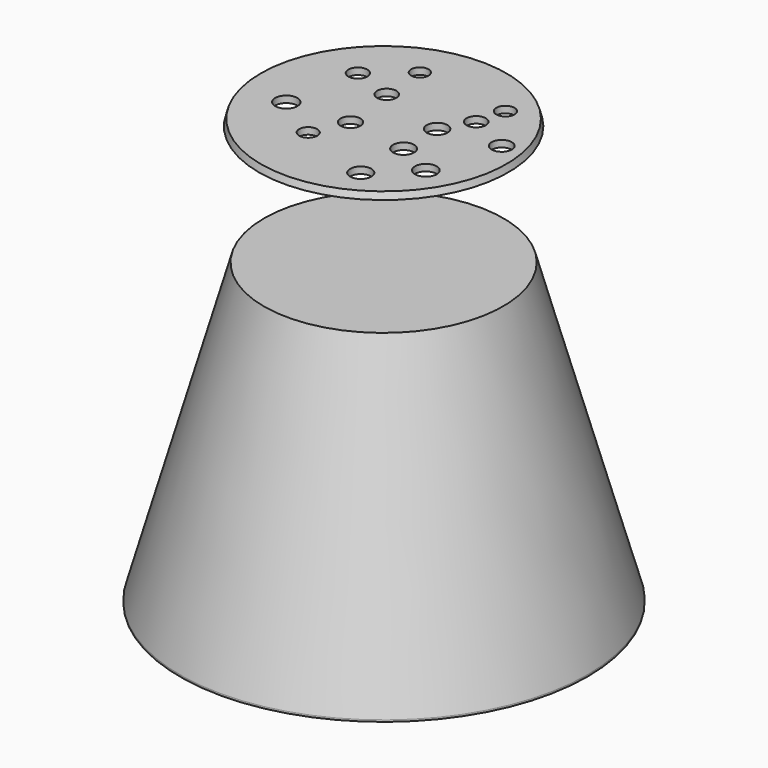
from build123d import *

# Parameters (mm, degrees)
F3_R     = 2.2664250342
F3_R_2   = 2.1822297353
F3_R_3   = 2.282281141
F3_R_4   = 2.64483265
F3_R_5   = 2.7240512482
F3_R_6   = 2.6649914966
F3_R_7   = 2.6057239863
F3_R_8   = 2.4093813538
F3_R_9   = 2.5323750002
F3_R_10  = 2.4159586068
F3_R_11  = 2.3852052253
F3_R_12  = 2.4866511686
F3_R_13  = 2.7873706171
F4_DEPTH = 2.1


with BuildPart() as f1:
    # F0 (on Front) → F1 (revolve)
    with BuildSketch(Plane.XZ):
        Polygon((0, 0), (-30, -0.0542007617), (-50.9721353226, -74.5447462469), (-50.9721353226, -75.0054545931), (-49.3357537386, -75.0054545931), (-31.2951667125, -10.9274221097), (-30.8227315443, -9.2493882403), (-28.7118752785, -1.751876315), (0.0022064812, -1.6999988116), align=None)
    revolve(axis=Axis((0.0011032406, 0, -0.8499994058), (-0.0012979299, 0, 0.9999991577)))


with BuildPart() as f2:
    # F0 (on Front) → F2 (revolve)
    with BuildSketch(Plane.XZ):
        Polygon((0.0010570226, 30.0191346799), (0.0010570226, 31.6971685494), (-30.8216745217, 31.6971685494), (-31.2941096899, 30.0191346799), align=None)
    revolve(axis=Axis((0.0010570226, 0, 30.8581516147), (0, 0, 1)))

    # F3 (on face) → F4 (cut)
    with BuildSketch(Plane.XY.offset(31.6971685494)):
        with Locations((-7.8894328326, -13.7825533748)):
            Circle(F3_R)
        with Locations((-6.7177857272, 19.7487901896)):
            Circle(F3_R_2)
        with Locations((16.6287105531, 17.406752333)):
            Circle(F3_R_3)
        with Locations((10.9953926876, -7.4778213166)):
            Circle(F3_R_4)
        with Locations((20.129904151, -11.9132352993)):
            Circle(F3_R_5)
        with Locations((10.8226593584, -20.6961706281)):
            Circle(F3_R_6)
        with Locations((10.8844479546, 3.162371926)):
            Circle(F3_R_7)
        with Locations((14.9638019502, 10.3172091767)):
            Circle(F3_R_8)
        with Locations((25.2614617348, 5.4547316395)):
            Circle(F3_R_9)
        with Locations((-5.977217108, 8.4447944537)):
            Circle(F3_R_10)
        with Locations((-16.0386115313, 11.9658950716)):
            Circle(F3_R_11)
        with Locations((-4.1480776854, -5.2057215944)):
            Circle(F3_R_12)
        with Locations((-19.2948821932, -6.39344519)):
            Circle(F3_R_13)
    extrude(amount=-F4_DEPTH, mode=Mode.SUBTRACT)


solid = Compound([f1.part, f2.part])
